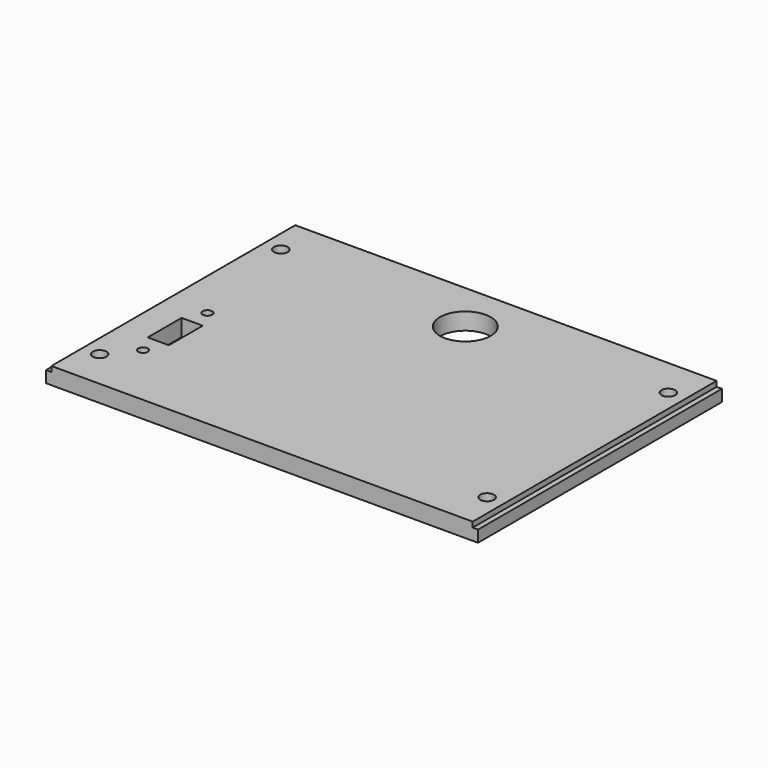
from build123d import *

# Parameters (mm, degrees)
F0_W           = 102
F0_H           = 72
F1_DEPTH       = 2.75
F2_W           = 99.5
F2_H           = 72
F3_DEPTH       = 1.25
F5_D           = 3.25
F5_DEPTH       = 8
F5_CBORE_D     = 6
F5_CBORE_DEPTH = 2
F7_DEPTH       = 4
F9_D           = 2.25
F11_D          = 12


with BuildPart() as f1:
    # F0 (on Top) → F1 (new body)
    with BuildSketch(Plane.XY):
        Rectangle(F0_W, F0_H)
    extrude(amount=F1_DEPTH)

    # F2 (on face) → F3 (join)
    with BuildSketch(Plane.XY.offset(2.75)):
        Rectangle(F2_W, F2_H)
    extrude(amount=F3_DEPTH)

    # F5
    with Locations(Plane(origin=(0, 0, 0), x_dir=(1, 0, 0), z_dir=(0, 0, -1))):
        with Locations((-45.75, 26.75), (45.75, 26.75), (45.75, -26.75), (-45.75, -26.75)):
            CounterBoreHole(F5_D / 2, F5_CBORE_D / 2, F5_CBORE_DEPTH, depth=F5_DEPTH)

    # F6 (on face) → F7 (cut)
    with BuildSketch(Plane(origin=(0, 0, 0), x_dir=(1, 0, 0), z_dir=(0, 0, -1))):
        Polygon((-40.5, 16), (-43, 16), (-43, 6), (-40.5, 6), (-38, 6), (-38, 11), (-38, 16), align=None)
    extrude(amount=-F7_DEPTH, mode=Mode.SUBTRACT)

    # F9 (through all)
    with Locations(Plane(origin=(0, 0, 0), x_dir=(1, 0, 0), z_dir=(0, 0, -1))):
        with Locations((-40.5, 20.5), (-40.5, 1.5)):
            Hole(F9_D / 2)

    # F11 (through all)
    with Locations(Plane(origin=(0, 0, 0), x_dir=(1, 0, 0), z_dir=(0, 0, -1))):
        with Locations((0, -24)):
            Hole(F11_D / 2)


solid = f1.part
